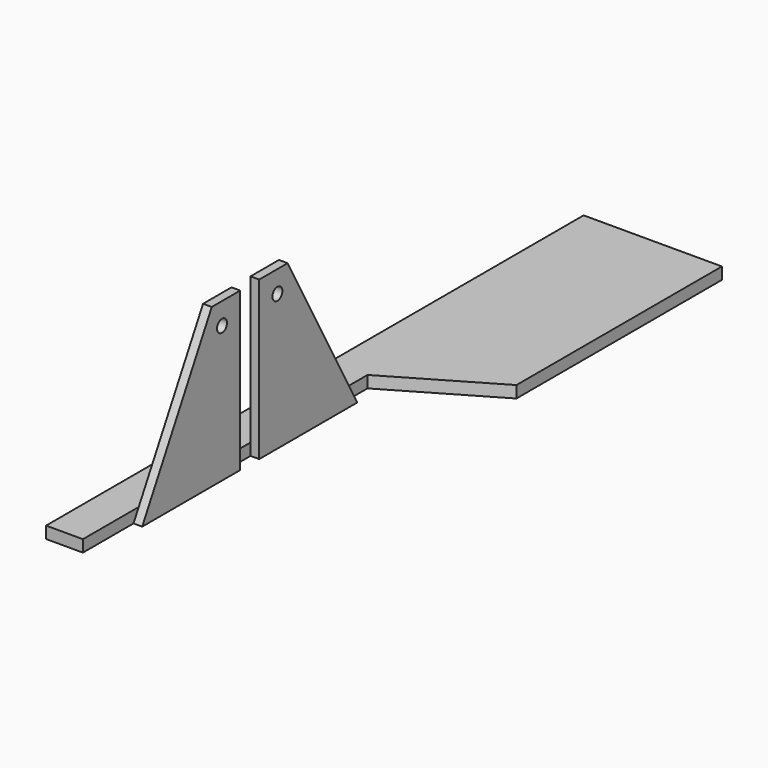
from build123d import *

# Parameters (mm, degrees)
PAD_DEPTH       = 3
SKETCH001_W     = 2
SKETCH001_H     = 6
POCKET_DEPTH    = 5
PAD001_DEPTH    = 2.2
SKETCH003_R     = 1.571244
POCKET001_DEPTH = 5


with BuildPart() as part:
    # Sketch → Pad (new body)
    with BuildSketch(Plane.XY):
        Polygon((0, -50), (9.32, -50), (9.32, 40), (35, 55), (35, 120), (0, 120), align=None)
    extrude(amount=PAD_DEPTH)

    # Sketch001 (on Face7 of Pad) → Pocket (cut)
    with BuildSketch(Plane(origin=(0, 0, 0), x_dir=(1, 0, 0), z_dir=(0, 0, -1))):
        with Locations((1, 0)):
            Rectangle(SKETCH001_W, SKETCH001_H)
    pocket = extrude(amount=-POCKET_DEPTH, mode=Mode.SUBTRACT)

    # Sketch002 (on Face3 of Pocket) → Pad001 (join)
    with BuildSketch(Plane.YZ.offset(9.32)):
        Polygon((-3, 0), (-3, 40), (-12, 40), (-34, 0), align=None)
    pad001 = extrude(amount=PAD001_DEPTH)

    # Sketch003 (on Face18 of Pad001) → Pocket001 (cut)
    with BuildSketch(Plane.YZ.offset(11.52)):
        with Locations((-8.751605, 34.485332)):
            Circle(SKETCH003_R)
    pocket001 = extrude(amount=-POCKET001_DEPTH, mode=Mode.SUBTRACT)

    # Mirrored: Pocket, Pad001, Pocket001 across XZ
    add(pocket.mirror(Plane.XZ), mode=Mode.SUBTRACT)
    add(pad001.mirror(Plane.XZ))
    add(pocket001.mirror(Plane.XZ), mode=Mode.SUBTRACT)


solid = part.part
